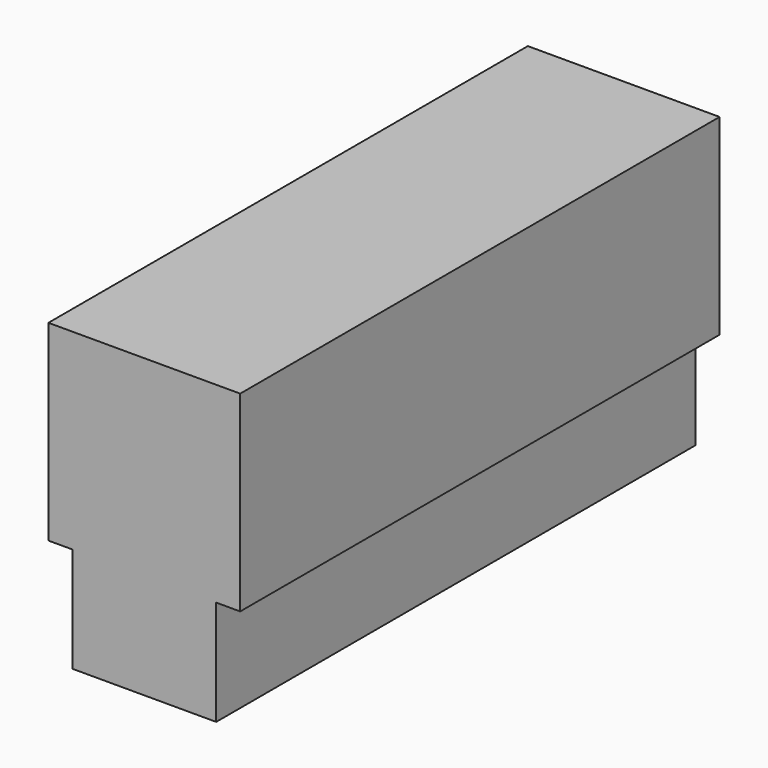
from build123d import *

# Parameters (mm, degrees)
F0_W     = 3
F0_H     = 4.382552
F1_DEPTH = 25


with BuildPart() as f1:
    # F0 (on Front) → F1 (new body)
    with BuildSketch(Plane.XZ):
        Polygon((-3, 0), (0, 0), (0, 8), (-4, 8), (-4, 0), align=None)
        Polygon((0, 8), (0, 0), (3, 0), (4, 0), (4, 8), align=None)
        with Locations((-1.5, -2.191276)):
            Rectangle(F0_W, F0_H)
        with Locations((1.5, -2.191276)):
            Rectangle(F0_W, F0_H)
    extrude(amount=F1_DEPTH)


solid = f1.part
